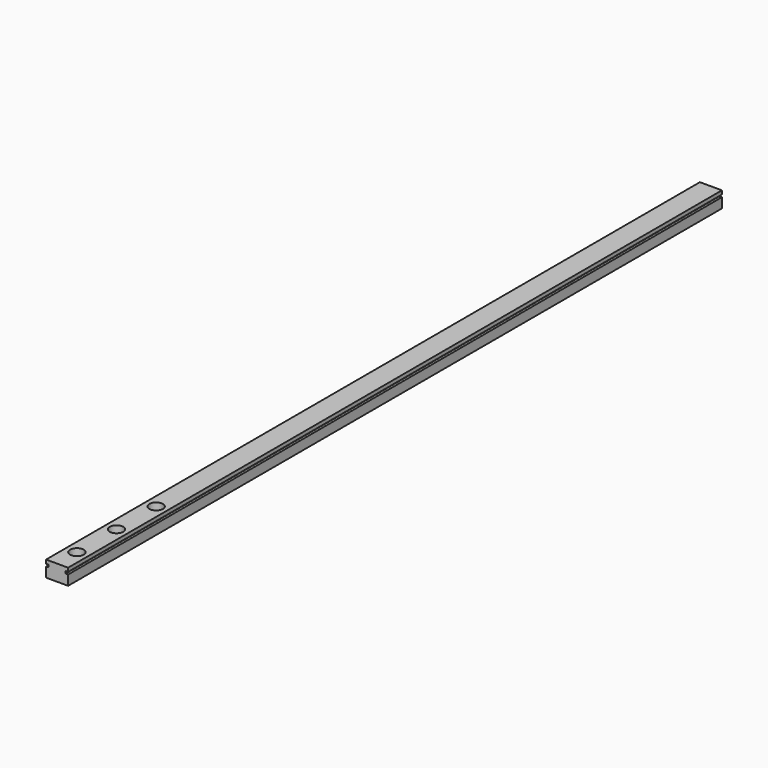
from build123d import *

# Parameters (mm, degrees)
F1_DEPTH = 330
F2_R     = 2.75
F3_DEPTH = 4.25
F4_R     = 1.675
F5_DEPTH = 2.201


with BuildPart() as f1:
    # F0 (on Front) → F1 (new body)
    with BuildSketch(Plane.XZ):
        Polygon((-4.45, 4), (-4.45, 0), (4.45, 0), (4.45, 4), (3.45, 4), (3.45, 4.95), (4.45, 4.95), (4.45, 6.45), (-4.45, 6.45), (-4.45, 4.95), (-3.45, 4.95), (-3.45, 4), align=None)
    extrude(amount=F1_DEPTH)

    # F2 (on face) → F3 (cut)
    with BuildSketch(Plane.XY.offset(6.45)):
        with Locations((0, -320)):
            Circle(F2_R)
        with Locations((0, -300)):
            Circle(F2_R)
        with Locations((0, -280)):
            Circle(F2_R)
    extrude(amount=-F3_DEPTH, mode=Mode.SUBTRACT)

    # F4 (on face) → F5 (cut, through all)
    with BuildSketch(Plane.XY.offset(2.2)):
        with Locations((0, -320)):
            Circle(F4_R)
    extrude(amount=-F5_DEPTH, mode=Mode.SUBTRACT)


solid = f1.part
